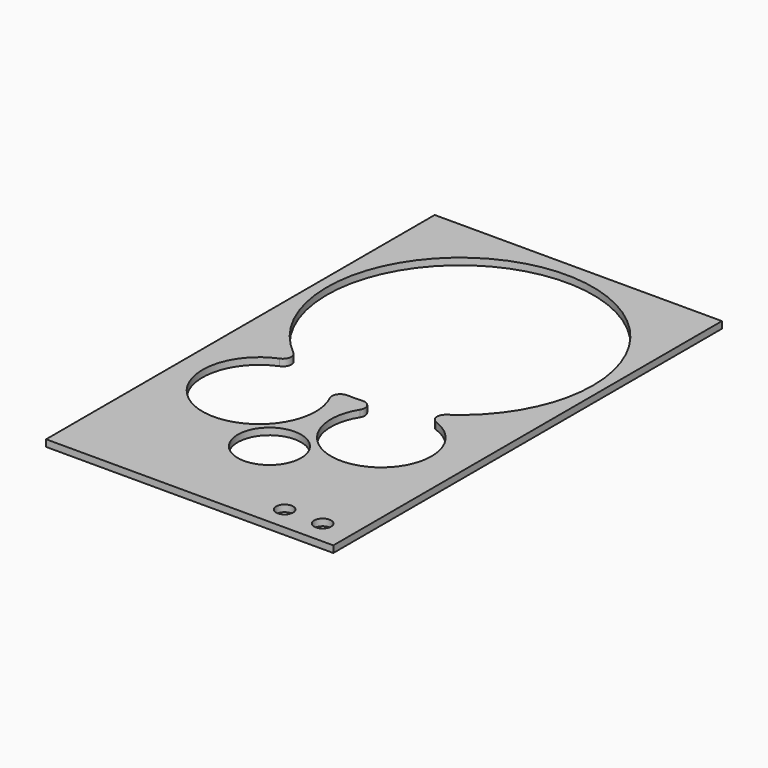
from build123d import *

# Parameters (mm, degrees)
SKETCH001_W   = 340
SKETCH001_H   = 575
SKETCH001_R   = 10
SKETCH001_R_2 = 37.5
PAD_DEPTH     = 8
FILLET_R      = 10


with BuildPart() as part:
    # Sketch001 → Pad (new body)
    with BuildSketch(Plane.XY):
        Rectangle(SKETCH001_W, SKETCH001_H)
        with Locations((90, -259.5)):
            Circle(SKETCH001_R, mode=Mode.SUBTRACT)
        with Locations((135, -259.5)):
            Circle(SKETCH001_R, mode=Mode.SUBTRACT)
        with Locations((0, -169.5)):
            Circle(SKETCH001_R_2, mode=Mode.SUBTRACT)
        with BuildLine():
            ThreePointArc((-28.356199, -42.426357), (6.438053, -44.868362), (40.916555, -39.592358))
            ThreePointArc((40.916555, -39.592358), (89.311403, -147.778946), (61.085766, -32.671551))
            ThreePointArc((61.085766, -32.671551), (11.986677, 269.543209), (-82.410869, -21.718846))
            ThreePointArc((-82.410869, -21.718846), (-100.968142, -151.06619), (-28.356199, -42.426357))
        make_face(mode=Mode.SUBTRACT)
    extrude(amount=PAD_DEPTH)

    # Fillet
    fillet_edges = [part.edges().sort_by_distance(p)[0] for p in [
        (-82.410869, -21.718846, 4),
        (40.916555, -39.592358, 4),
        (61.085766, -32.671551, 4),
        (-28.356199, -42.426357, 4),
    ]]
    fillet(fillet_edges, radius=FILLET_R)


solid = part.part
